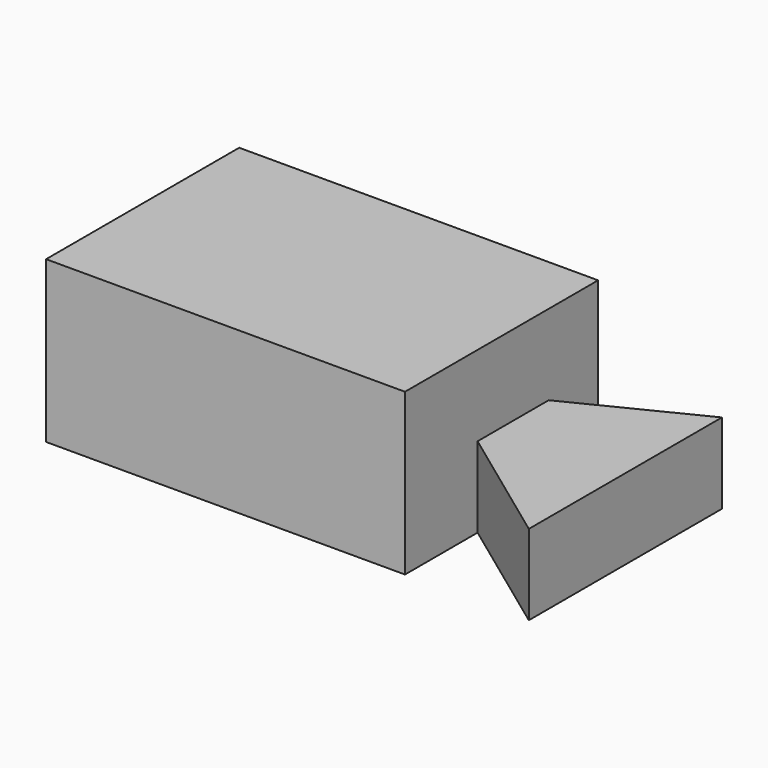
from build123d import *

# Parameters (mm, degrees)
F0_W     = 152.4
F0_H     = 50.8
F1_DEPTH = 76.2
F3_DEPTH = 50.801
F4_W     = 48.462587264
F4_H     = 25.4
F5_DEPTH = 61.4661735057
F8_DEPTH = 25.4


with BuildPart() as f1:
    # F0 (on Front) → F1 (new body)
    with BuildSketch(Plane.XZ):
        with Locations((2.3709694028, -11.726943469)):
            Rectangle(F0_W, F0_H)
    extrude(amount=F1_DEPTH)

    # F2 (on face) → F3 (cut, through all)
    with BuildSketch(Plane.XY.offset(13.673056531)):
        Polygon((39.4796133041, -76.2), (78.5709694028, -76.2), (39.4796133041, -47.5558340549), align=None)
        Polygon((39.4796133041, 0), (39.4796133041, -19.5033811033), (78.5709694028, 0), align=None)
    extrude(amount=-F3_DEPTH, mode=Mode.SUBTRACT)

    # F4 (on face) → F5 (cut, through all)
    with BuildSketch(Plane(origin=(-8.8807709948, -12.1197936799, 0), x_dir=(0.8066295736, -0.5910572993, 0), z_dir=(-0.5910572993, -0.8066295736, 0))):
        with Locations((84.1849401183, 0.973056531)):
            Rectangle(F4_W, F4_H)
    extrude(amount=-F5_DEPTH, mode=Mode.SUBTRACT)

    # F7 (on face) → F8 (cut)
    with BuildSketch(Plane.XY.offset(13.673056531)):
        Polygon((39.4796133041, -19.5033811033), (39.4796133041, -47.5558340549), (71.8800364079, -3.338226891), align=None)
        Polygon((71.8800364079, -3.338226891), (39.4796133041, -47.5558340549), (60.0389204919, -83.1656008959), (93.497350812, -40.1085205376), align=None)
    extrude(amount=-F8_DEPTH, mode=Mode.SUBTRACT)


solid = f1.part
